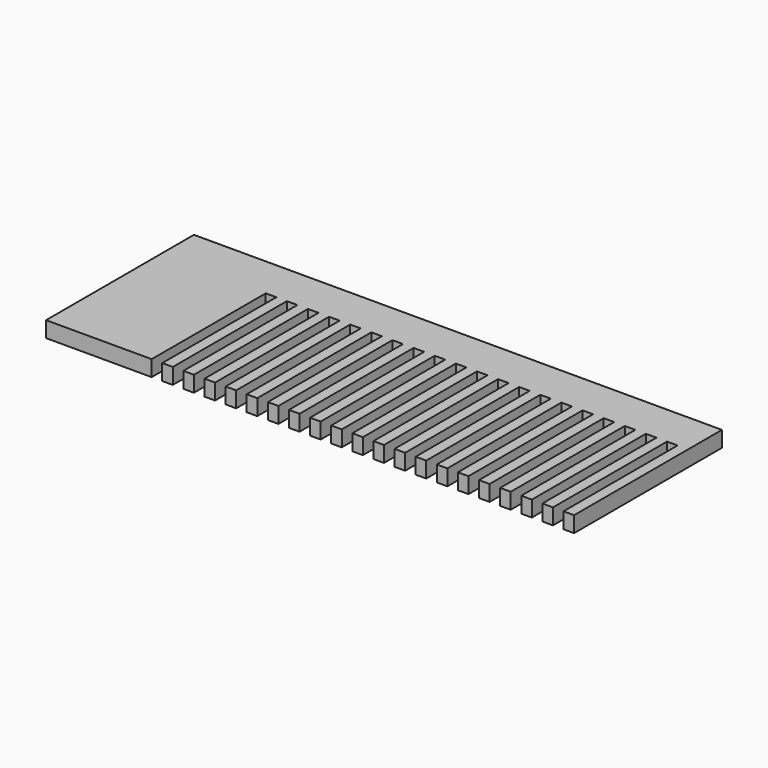
from build123d import *

# Parameters (mm, degrees)
F0_W     = 100
F0_H     = 35
F1_DEPTH = 3
F2_W     = 2
F2_H     = 35
F3_DEPTH = 3.001


with BuildPart() as f1:
    # F0 (on Top) → F1 (new body)
    with BuildSketch(Plane.XY):
        Rectangle(F0_W, F0_H)
    extrude(amount=F1_DEPTH)

    # F2 (on face) → F3 (cut, through all)
    with BuildSketch(Plane.XY.offset(3)):
        with Locations((47, -8)):
            Rectangle(F2_W, F2_H)
        with Locations((43, -8)):
            Rectangle(F2_W, F2_H)
        with Locations((39, -8)):
            Rectangle(F2_W, F2_H)
        with Locations((35, -8)):
            Rectangle(F2_W, F2_H)
        with Locations((31, -8)):
            Rectangle(F2_W, F2_H)
        with Locations((27, -8)):
            Rectangle(F2_W, F2_H)
        with Locations((23, -8)):
            Rectangle(F2_W, F2_H)
        with Locations((19, -8)):
            Rectangle(F2_W, F2_H)
        with Locations((15, -8)):
            Rectangle(F2_W, F2_H)
        with Locations((11, -8)):
            Rectangle(F2_W, F2_H)
        with Locations((7, -8)):
            Rectangle(F2_W, F2_H)
        with Locations((3, -8)):
            Rectangle(F2_W, F2_H)
        with Locations((-1, -8)):
            Rectangle(F2_W, F2_H)
        with Locations((-5, -8)):
            Rectangle(F2_W, F2_H)
        with Locations((-9, -8)):
            Rectangle(F2_W, F2_H)
        with Locations((-13, -8)):
            Rectangle(F2_W, F2_H)
        with Locations((-17, -8)):
            Rectangle(F2_W, F2_H)
        with Locations((-21, -8)):
            Rectangle(F2_W, F2_H)
        with Locations((-25, -8)):
            Rectangle(F2_W, F2_H)
        with Locations((-29, -8)):
            Rectangle(F2_W, F2_H)
    extrude(amount=-F3_DEPTH, mode=Mode.SUBTRACT)


solid = f1.part
